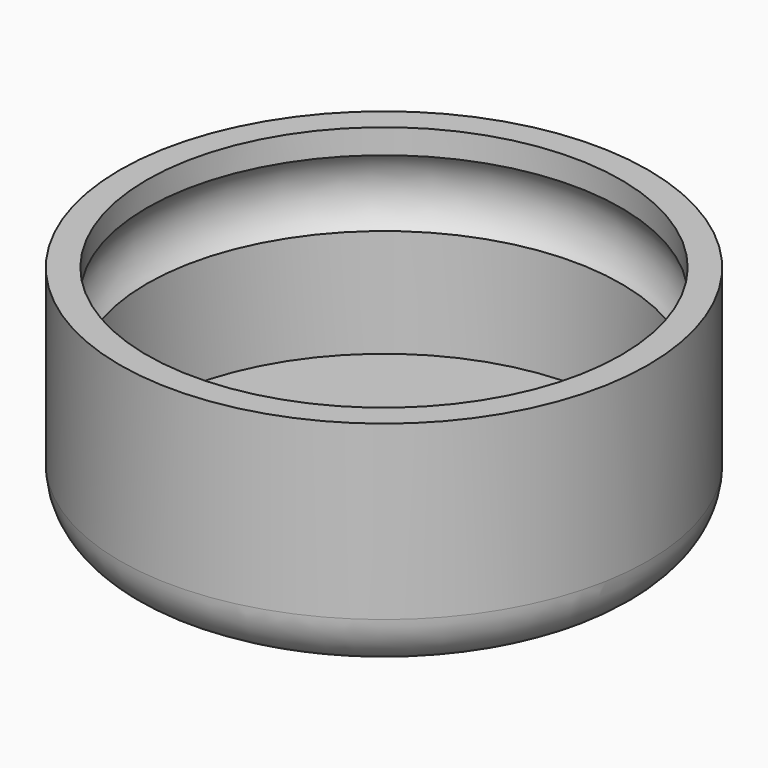
from build123d import *

# Parameters (mm, degrees)
F0_R     = 24.5
F1_DEPTH = 10.5
F2_T     = -2.5
F5_R     = 5


with BuildPart() as f1:
    # F0 (on Top) → F1 (new body, symmetric)
    with BuildSketch(Plane.XY):
        Circle(F0_R)
    extrude(amount=F1_DEPTH, both=True)

    # F2
    f2_openings = [f1.faces().sort_by_distance(p)[0] for p in [
        (0, 0, 10.5),
    ]]
    offset(amount=F2_T, openings=f2_openings)

    # F3 (on Front) → F4 (revolve, cut)
    with BuildSketch(Plane.XZ):
        with BuildLine():
            Line((-22, 2.023608), (-22, 8.213608))
            ThreePointArc((-22, 8.213608), (-23.237886, 5.118608), (-22, 2.023608))
        make_face()
    revolve(axis=Axis((0, 0, 3.342178), (0, 0, -1)), mode=Mode.SUBTRACT)

    # F5
    f5_edges = [f1.edges().sort_by_distance(p)[0] for p in [
        (-24.5, 0, -10.5),
    ]]
    fillet(f5_edges, radius=F5_R)


solid = f1.part
